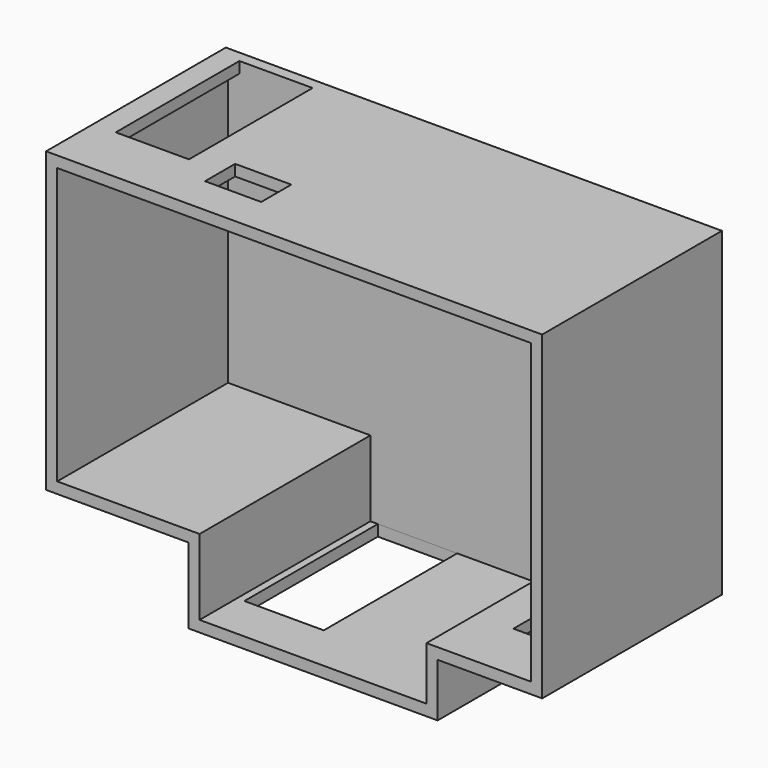
from build123d import *

# Parameters (mm, degrees)
F1_DEPTH  = 96
F3_DEPTH  = 5
F4_W      = 35.683347
F4_H      = 74.969277
F5_DEPTH  = 25
F6_W      = 30
F6_H      = 68.393142
F7_DEPTH  = 25
F8_W      = 32.890719
F8_H      = 69.467282
F9_DEPTH  = 25
F10_W     = 25.267087
F10_H     = 16.910314
F11_DEPTH = 25


with BuildPart() as f1:
    # F0 (on Front) → F1 (new body)
    with BuildSketch(Plane.XZ):
        Polygon((-5, -5), (0, -5), (102, -5), (107, -5), (107, 19), (154, 19), (154, 163), (-69, 163), (-69, 29), (-5, 29), align=None)
        Polygon((102, 0), (0, 0), (0, 34), (-64, 34), (-64, 158), (149, 158), (149, 24), (102, 24), align=None, mode=Mode.SUBTRACT)
    extrude(amount=F1_DEPTH)

    # F2 (on face) → F3 (join)
    with BuildSketch(Plane(origin=(0, 0, 0), x_dir=(-1, 0, 0), z_dir=(0, 1, 0))):
        Polygon((69, 163), (-154, 163), (-154, 19), (-107, 19), (-107, -5), (5, -5), (5, 29), (69, 29), align=None)
    extrude(amount=F3_DEPTH)

    # F4 (on face) → F5 (cut)
    with BuildSketch(Plane.XY):
        with Locations((21.158327, -37.484638)):
            Rectangle(F4_W, F4_H)
    extrude(amount=-F5_DEPTH, mode=Mode.SUBTRACT)

    # F6 (on face) → F7 (cut)
    with BuildSketch(Plane.XY.offset(24)):
        with Locations((134, -34.196571)):
            Rectangle(F6_W, F6_H)
    extrude(amount=-F7_DEPTH, mode=Mode.SUBTRACT)

    # F8 (on face) → F9 (cut)
    with BuildSketch(Plane(origin=(0, 0, 158), x_dir=(1, 0, 0), z_dir=(0, 0, -1))):
        with Locations((-42.445359, 34.733641)):
            Rectangle(F8_W, F8_H)
    extrude(amount=-F9_DEPTH, mode=Mode.SUBTRACT)

    # F10 (on face) → F11 (cut)
    with BuildSketch(Plane(origin=(0, 0, 158), x_dir=(1, 0, 0), z_dir=(0, 0, -1))):
        with Locations((1.403039, 70.452839)):
            Rectangle(F10_W, F10_H)
    extrude(amount=-F11_DEPTH, mode=Mode.SUBTRACT)


solid = f1.part
